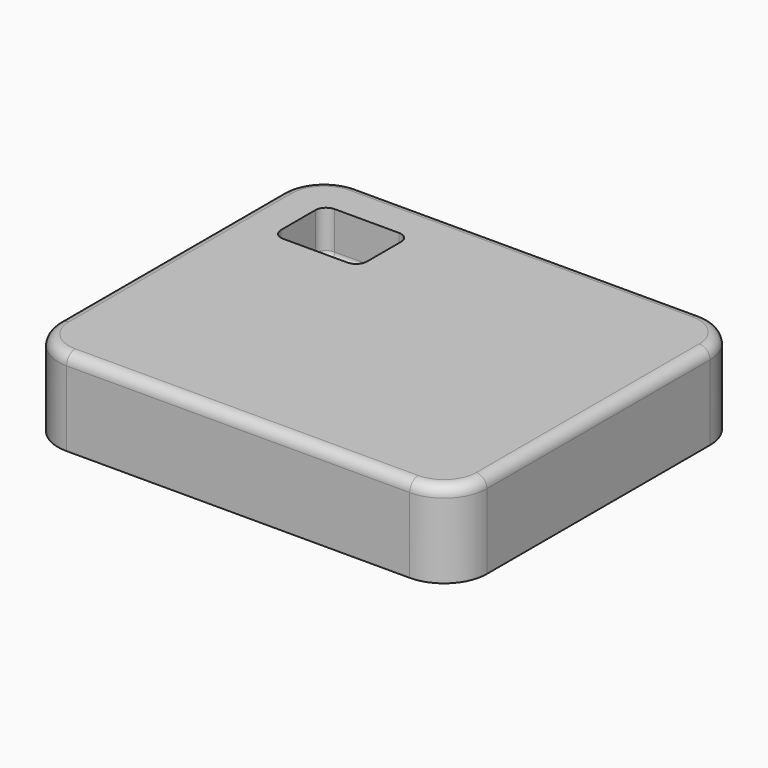
from build123d import *

# Parameters (mm, degrees)
F0_W     = 127
F0_H     = 107.95
F1_DEPTH = 25.4
F2_W     = 25.4
F2_H     = 19.05
F3_DEPTH = 12.7
F4_R     = 3.175
F5_R     = 1.524
F6_R     = 12.7
F7_R     = 3.175


with BuildPart() as f1:
    # F0 (on Top) → F1 (new body)
    with BuildSketch(Plane.XY):
        Rectangle(F0_W, F0_H)
    extrude(amount=F1_DEPTH)

    # F2 (on face) → F3 (cut)
    with BuildSketch(Plane.XY.offset(25.4)):
        with Locations((-38.1, 31.75)):
            Rectangle(F2_W, F2_H)
    extrude(amount=-F3_DEPTH, mode=Mode.SUBTRACT)

    # F4
    f4_edges = [f1.edges().sort_by_distance(p)[0] for p in [
        (-50.8, 41.275, 19.05),
        (-50.8, 22.225, 19.05),
        (-25.4, 22.225, 19.05),
        (-25.4, 41.275, 19.05),
    ]]
    fillet(f4_edges, radius=F4_R)

    # F5
    f5_edges = [f1.edges().sort_by_distance(p)[0] for p in [
        (-38.1, 22.225, 12.7),
    ]]
    fillet(f5_edges, radius=F5_R)

    # F6
    f6_edges = [f1.edges().sort_by_distance(p)[0] for p in [
        (63.5, -53.975, 12.7),
        (63.5, 53.975, 12.7),
        (-63.5, -53.975, 12.7),
        (-63.5, 53.975, 12.7),
    ]]
    fillet(f6_edges, radius=F6_R)

    # F7
    f7_edges = [f1.edges().sort_by_distance(p)[0] for p in [
        (0, -53.975, 25.4),
    ]]
    fillet(f7_edges, radius=F7_R)


solid = f1.part
